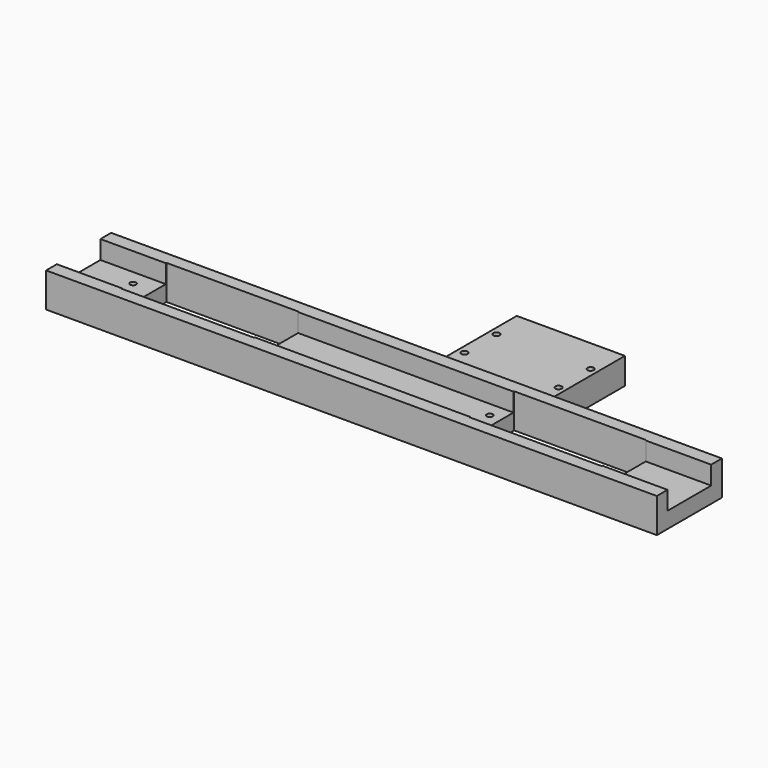
from build123d import *

# Parameters (mm, degrees)
F0_W     = 152.4
F0_H     = 20.3
F0_W_2   = 33
F0_H_2   = 14
F1_DEPTH = 8.6
F2_W     = 152.4
F2_H     = 13.6
F3_DEPTH = 4.6
F6_DEPTH = 8.6
F7_W     = 27
F7_H     = 25
F8_DEPTH = 2
F4_R     = 0.75
F9_DEPTH = 4.001


with BuildPart() as f1:
    # F0 (on Top) → F1 (new body)
    with BuildSketch(Plane.XY):
        Rectangle(F0_W, F0_H)
        with Locations((-43.375, 0)):
            Rectangle(F0_W_2, F0_H_2, mode=Mode.SUBTRACT)
        with Locations((43.375, 0)):
            Rectangle(F0_W_2, F0_H_2, mode=Mode.SUBTRACT)
    extrude(amount=F1_DEPTH)

    # F2 (on face) → F3 (cut)
    with BuildSketch(Plane.XY.offset(8.6)):
        Rectangle(F2_W, F2_H)
    extrude(amount=-F3_DEPTH, mode=Mode.SUBTRACT)

    # F5 (on face) → F6 (join, through all)
    with BuildSketch(Plane.XY.offset(8.6)):
        with BuildLine():
            Line((7, 15.8900657923), (7, 10.15))
            Line((7, 10.15), (30, 10.15))
            Line((30, 10.15), (30, 15.8900657923))
            ThreePointArc((30, 15.8900657923), (29.45, 16.65), (30, 17.4099342077))
            Line((30, 17.4099342077), (30, 25.8900657923))
            ThreePointArc((30, 25.8900657923), (29.45, 26.65), (30, 27.4099342077))
            Line((30, 27.4099342077), (30, 33.15))
            Line((30, 33.15), (7, 33.15))
            Line((7, 33.15), (7, 27.4099342077))
            ThreePointArc((7, 27.4099342077), (7.3980740698, 27.119041576), (7.55, 26.65))
            ThreePointArc((7.55, 26.65), (7.3980740698, 26.180958424), (7, 25.8900657923))
            Line((7, 25.8900657923), (7, 17.4099342077))
            ThreePointArc((7, 17.4099342077), (7.3980740698, 17.119041576), (7.55, 16.65))
            ThreePointArc((7.55, 16.65), (7.3980740698, 16.180958424), (7, 15.8900657923))
        make_face()
        with BuildLine():
            Line((5, 10.15), (7, 10.15))
            Line((7, 10.15), (7, 15.8900657923))
            ThreePointArc((7, 15.8900657923), (5.95, 16.65), (7, 17.4099342077))
            Line((7, 17.4099342077), (7, 25.8900657923))
            ThreePointArc((7, 25.8900657923), (5.95, 26.65), (7, 27.4099342077))
            Line((7, 27.4099342077), (7, 33.15))
            Line((7, 33.15), (30, 33.15))
            Line((30, 33.15), (30, 27.4099342077))
            ThreePointArc((30, 27.4099342077), (30.719041576, 27.2980740698), (31.05, 26.65))
            ThreePointArc((31.05, 26.65), (30.719041576, 26.0019259302), (30, 25.8900657923))
            Line((30, 25.8900657923), (30, 17.4099342077))
            ThreePointArc((30, 17.4099342077), (30.719041576, 17.2980740698), (31.05, 16.65))
            ThreePointArc((31.05, 16.65), (30.719041576, 16.0019259302), (30, 15.8900657923))
            Line((30, 15.8900657923), (30, 10.15))
            Line((30, 10.15), (32, 10.15))
            Line((32, 10.15), (32, 35.15))
            Line((32, 35.15), (5, 35.15))
            Line((5, 35.15), (5, 10.15))
        make_face()
    extrude(amount=-F6_DEPTH)

    # F7 (on face) → F8 (cut)
    with BuildSketch(Plane.XY.offset(8.6)):
        with Locations((18.5, 22.65)):
            Rectangle(F7_W, F7_H)
    extrude(amount=-F8_DEPTH, mode=Mode.SUBTRACT)

    # F4 (on face) → F9 (cut, through all)
    with BuildSketch(Plane.XY.offset(4)):
        with Locations((24, 3)):
            Circle(F4_R)
        with Locations((-25, -3)):
            Circle(F4_R)
        with Locations((-65, 3)):
            Circle(F4_R)
        with Locations((69, -3)):
            Circle(F4_R)
    extrude(amount=-F9_DEPTH, mode=Mode.SUBTRACT)


solid = f1.part
